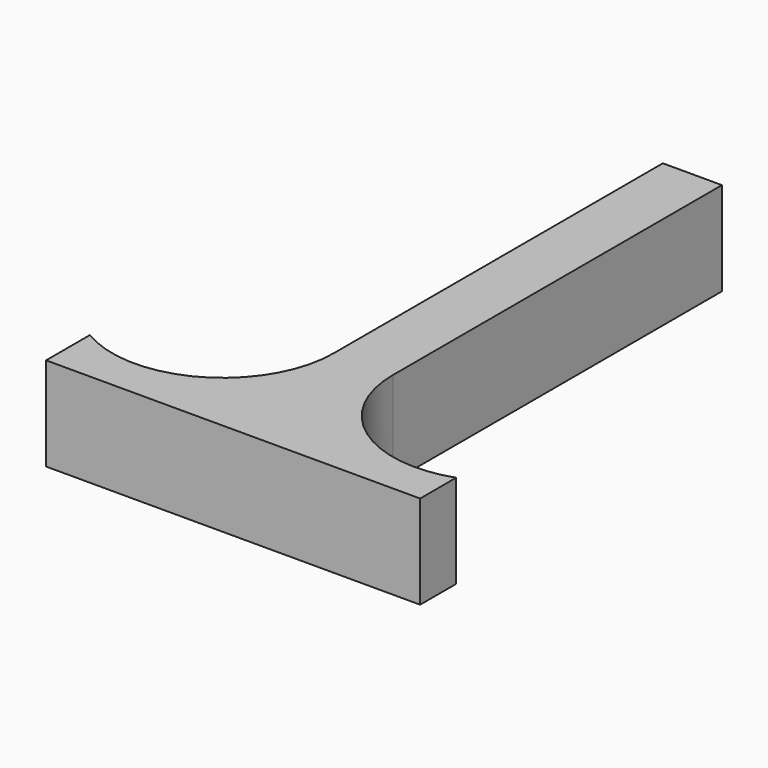
from build123d import *

# Parameters (mm, degrees)
F0_W     = 4.0132
F0_H     = 27.94
F1_DEPTH = 6.35


with BuildPart() as f1:
    # F0 (on Top) → F1 (new body)
    with BuildSketch(Plane.XY):
        with Locations((1.519565, 24.13)):
            Rectangle(F0_W, F0_H)
        with BuildLine():
            Line((3.526165, 10.16), (-0.487035, 10.16))
            ThreePointArc((-0.487035, 10.16), (-4.308562, 3.613285), (-11.888256, 3.72183))
            Line((-11.888256, 3.72183), (-11.888256, 0))
            Line((-11.888256, 0), (13.511744, 0))
            Line((13.511744, 0), (13.511744, 3.057932))
            ThreePointArc((13.511744, 3.057932), (6.68698, 4.033191), (3.526165, 10.16))
        make_face()
    extrude(amount=F1_DEPTH)


solid = f1.part
